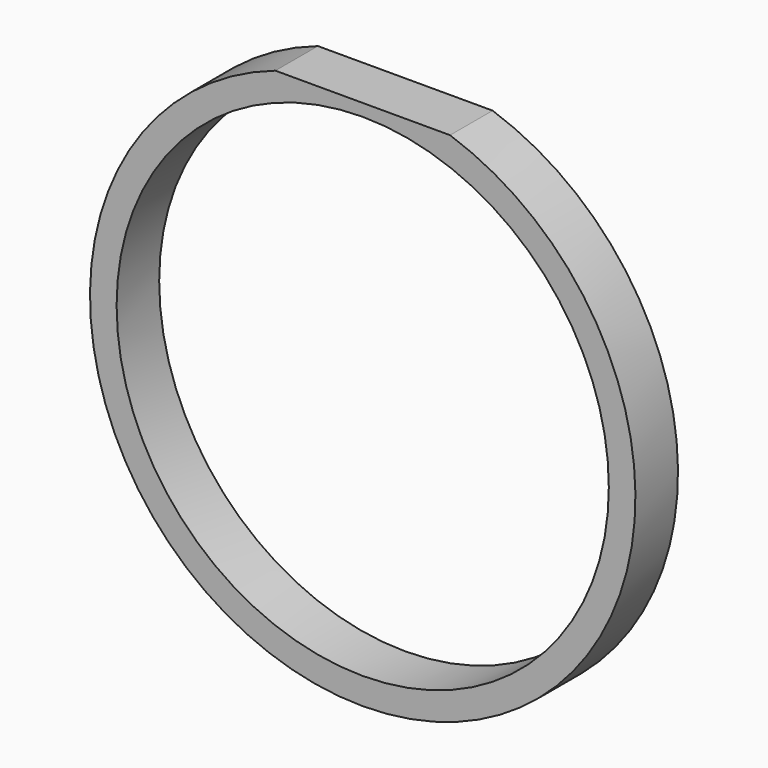
from build123d import *

# Parameters (mm, degrees)
F0_R     = 9.25
F1_DEPTH = 2


with BuildPart() as f1:
    # F0 (on Front) → F1 (new body)
    with BuildSketch(Plane.XZ):
        with BuildLine():
            Line((3.282699, 9.710118), (-3.282699, 9.710118))
            ThreePointArc((-3.282699, 9.710118), (0, -10.25), (3.282699, 9.710118))
        make_face()
        Circle(F0_R, mode=Mode.SUBTRACT)
    extrude(amount=F1_DEPTH)


solid = f1.part
